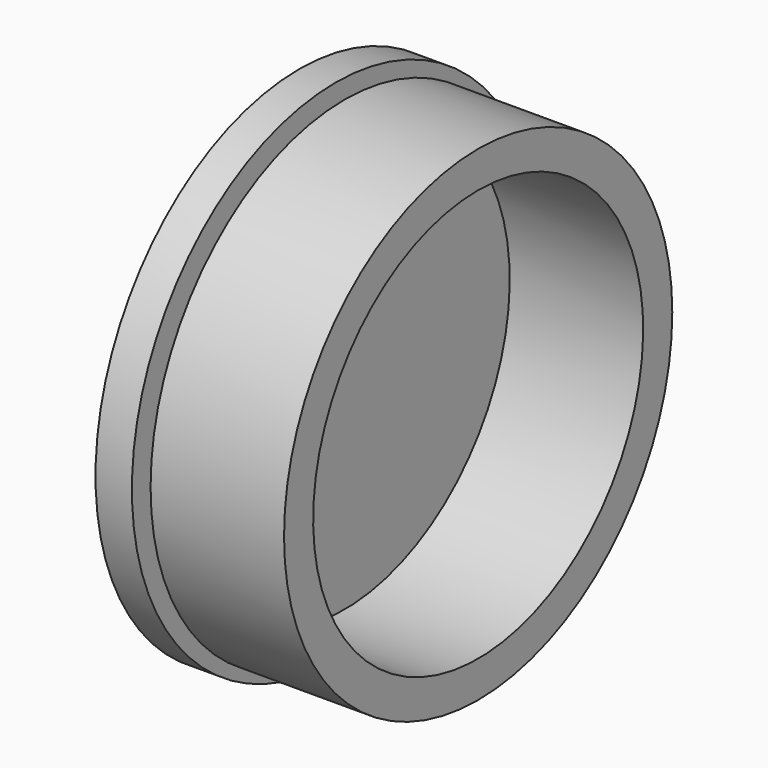
from build123d import *

# Parameters (mm, degrees)
F0_W = 3
F0_H = 21
F2_W = 11
F2_H = 3


with BuildPart() as f1:
    # F0 (on Front) → F1 (revolve)
    with BuildSketch(Plane.XZ):
        with Locations((1.5, 10.5)):
            Rectangle(F0_W, F0_H)
    revolve(axis=Axis((1.5, 0, 0), (1, 0, 0)))


with BuildPart() as f3:
    # F2 (on Front) → F3 (revolve)
    with BuildSketch(Plane.XZ):
        with Locations((9.238475, 18.5)):
            Rectangle(F2_W, F2_H)
    revolve(axis=Axis((9.238475, 0, 0), (1, 0, 0)))


solid = Compound([f1.part, f3.part])
